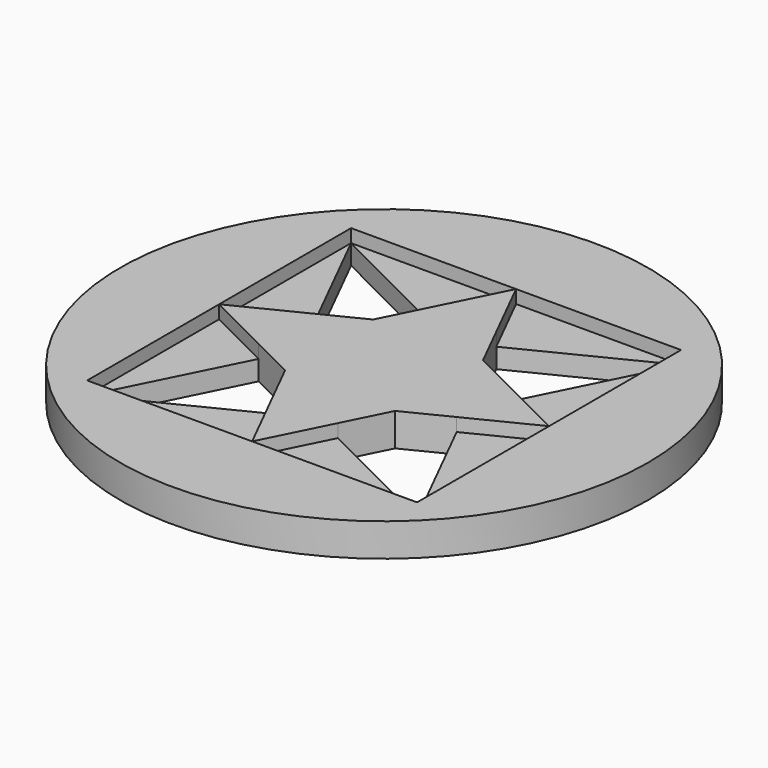
from build123d import *

# Parameters (mm, degrees)
F0_R     = 40
F1_DEPTH = 5
F2_DEPTH = 3


with BuildPart() as f1:
    # F0 (on Top) → F1 (new body)
    with BuildSketch(Plane.XY):
        Circle(F0_R)
        Polygon((-25, 0), (-25, 25), (0, 25), (25, 25), (25, 0), (25, -25), (0, -25), (-25, -25), align=None, mode=Mode.SUBTRACT)
    extrude(amount=F1_DEPTH)


with BuildPart() as f1b:
    # F0 (on Top) → F1, piece 2 (new body)
    with BuildSketch(Plane.XY):
        Polygon((-15, 5), (-25, 0), (-15, -5), (-12.5, 0), align=None)
        Polygon((15, -5), (25, 0), (15, 5), (12.5, 0), align=None)
        Polygon((5, 15), (0, 25), (-5, 15), (0, 12.5), align=None)
        Polygon((-5, -15), (0, -25), (5, -15), (0, -12.5), align=None)
        Polygon((8.3333333333, 8.3333333333), (0, 12.5), (-8.3333333333, 8.3333333333), (-12.5, 0), (-8.3333333333, -8.3333333333), (0, -12.5), (8.3333333333, -8.3333333333), (12.5, 0), align=None)
        Polygon((-8.3333333333, 8.3333333333), (-15, 5), (-12.5, 0), align=None)
        Polygon((-12.5, 0), (-15, -5), (-8.3333333333, -8.3333333333), align=None)
        Polygon((-8.3333333333, -8.3333333333), (-5, -15), (0, -12.5), align=None)
        Polygon((0, -12.5), (5, -15), (8.3333333333, -8.3333333333), align=None)
        Polygon((8.3333333333, -8.3333333333), (15, -5), (12.5, 0), align=None)
        Polygon((12.5, 0), (15, 5), (8.3333333333, 8.3333333333), align=None)
        Polygon((8.3333333333, 8.3333333333), (5, 15), (0, 12.5), align=None)
        Polygon((0, 12.5), (-5, 15), (-8.3333333333, 8.3333333333), align=None)
    extrude(amount=F1_DEPTH)


with BuildPart() as f2:
    # F0 (on Top) → F2 (new body)
    with BuildSketch(Plane.XY):
        Polygon((-15, 5), (-25, 25), (-25, 0), align=None)
    extrude(amount=F2_DEPTH)


with BuildPart() as f2b:
    # F0 (on Top) → F2, piece 2 (new body)
    with BuildSketch(Plane.XY):
        Polygon((0, 25), (-25, 25), (-5, 15), align=None)
    extrude(amount=F2_DEPTH)


with BuildPart() as f2c:
    # F0 (on Top) → F2, piece 3 (new body)
    with BuildSketch(Plane.XY):
        Polygon((25, 25), (0, 25), (5, 15), align=None)
    extrude(amount=F2_DEPTH)


with BuildPart() as f2d:
    # F0 (on Top) → F2, piece 4 (new body)
    with BuildSketch(Plane.XY):
        Polygon((25, 0), (25, 25), (15, 5), align=None)
    extrude(amount=F2_DEPTH)


with BuildPart() as f2e:
    # F0 (on Top) → F2, piece 5 (new body)
    with BuildSketch(Plane.XY):
        Polygon((25, -25), (25, 0), (15, -5), align=None)
    extrude(amount=F2_DEPTH)


with BuildPart() as f2f:
    # F0 (on Top) → F2, piece 6 (new body)
    with BuildSketch(Plane.XY):
        Polygon((5, -15), (0, -25), (25, -25), align=None)
    extrude(amount=F2_DEPTH)


with BuildPart() as f2g:
    # F0 (on Top) → F2, piece 7 (new body)
    with BuildSketch(Plane.XY):
        Polygon((-5, -15), (-25, -25), (0, -25), align=None)
    extrude(amount=F2_DEPTH)


with BuildPart() as f2h:
    # F0 (on Top) → F2, piece 8 (new body)
    with BuildSketch(Plane.XY):
        Polygon((-15, -5), (-25, 0), (-25, -25), align=None)
    extrude(amount=F2_DEPTH)


solid = Compound([f1.part, f1b.part, f2.part, f2b.part, f2c.part, f2d.part, f2e.part, f2f.part, f2g.part, f2h.part])
